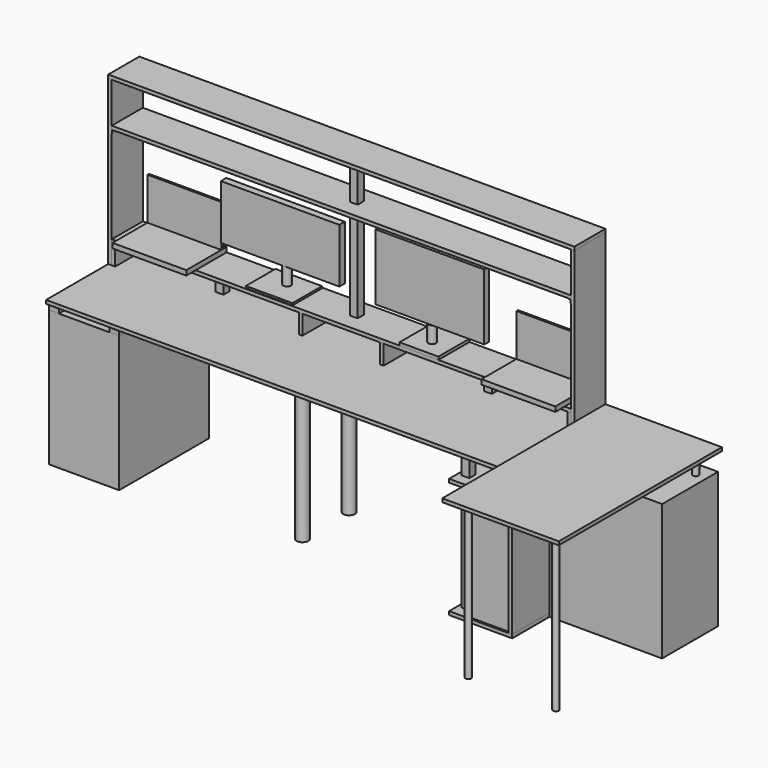
from build123d import *

# Parameters (mm, degrees)
BOX_W                     = 2400
BOX_H                     = 600
BOX_DEPTH                 = 18
BOX001_W                  = 360
BOX001_H                  = 580
BOX001_DEPTH              = 700
BOX002_W                  = 18
BOX002_H                  = 600
BOX002_DEPTH              = 718
BOX003_W                  = 2364
BOX003_H                  = 200
BOX003_DEPTH              = 18
BOX004_W                  = 2364
BOX004_H                  = 200
BOX004_DEPTH              = 18
BOX005_W                  = 2400
BOX005_H                  = 200
BOX005_DEPTH              = 18
BOX006_W                  = 18
BOX006_H                  = 200
BOX006_DEPTH              = 841
BOX007_W                  = 18
BOX007_H                  = 200
BOX007_DEPTH              = 841
CYLINDER_R                = 30
CYLINDER_DEPTH            = 710
CYLINDER001_R             = 30
CYLINDER001_DEPTH         = 710
BOX008_W                  = 18
BOX008_H                  = 200
BOX008_DEPTH              = 100
BOX009_W                  = 18
BOX009_H                  = 200
BOX009_DEPTH              = 100
BOX010_W                  = 50
BOX010_H                  = 580
BOX010_DEPTH              = 18
BOX011_W                  = 50
BOX011_H                  = 580
BOX011_DEPTH              = 18
BOX012_W                  = 50
BOX012_H                  = 580
BOX012_DEPTH              = 18
BOX013_W                  = 50
BOX013_H                  = 580
BOX013_DEPTH              = 18
BOX014_W                  = 100
BOX014_H                  = 100
BOX014_DEPTH              = 18
BOX015_W                  = 100
BOX015_H                  = 100
BOX015_DEPTH              = 18
BOX016_W                  = 100
BOX016_H                  = 100
BOX016_DEPTH              = 8
BOX017_W                  = 100
BOX017_H                  = 100
BOX017_DEPTH              = 8
BOX018_W                  = 18
BOX018_H                  = 200
BOX018_DEPTH              = 100
BOX019_W                  = 18
BOX019_H                  = 200
BOX019_DEPTH              = 100
BOX021_W                  = 40
BOX021_H                  = 40
BOX021_DEPTH              = 100
BOX022_W                  = 40
BOX022_H                  = 40
BOX022_DEPTH              = 100
BOX024_W                  = 40
BOX024_H                  = 40
BOX024_DEPTH              = 218
BOX025_W                  = 40
BOX025_H                  = 40
BOX025_DEPTH              = 507
BOX026_W                  = 205
BOX026_H                  = 555
BOX026_DEPTH              = 545
BOX027_W                  = 325
BOX027_H                  = 600
BOX027_DEPTH              = 18
BOX028_W                  = 40
BOX028_H                  = 40
BOX028_DEPTH              = 728
BOX029_W                  = 40
BOX029_H                  = 40
BOX029_DEPTH              = 728
BOX030_W                  = 307
BOX030_H                  = 600
BOX030_DEPTH              = 18
BOX032_W                  = 15
BOX032_H                  = 200
BOX032_DEPTH              = 1.5
BOX031_W                  = 1.5
BOX031_H                  = 200
BOX031_DEPTH              = 20
BOX034_W                  = 15
BOX034_H                  = 200
BOX034_DEPTH              = 1.5
BOX033_W                  = 1.5
BOX033_H                  = 200
BOX033_DEPTH              = 20
FUSION001_PLACEMENT_ANGLE = 180
BOX036_W                  = 380
BOX036_H                  = 10
BOX036_DEPTH              = 240
BOX035_W                  = 380
BOX035_H                  = 260
BOX035_DEPTH              = 25
FUSION002_PLACEMENT_ANGLE = 180
BOX038_W                  = 200
BOX038_H                  = 200
BOX038_DEPTH              = 15
CYLINDER002_R             = 20
CYLINDER002_DEPTH         = 90
BOX037_W                  = 560
BOX037_H                  = 30
BOX037_DEPTH              = 340
CYLINDER003_R             = 20
CYLINDER003_DEPTH         = 100
BOX040_W                  = 240
BOX040_H                  = 190
BOX040_DEPTH              = 10
BOX039_W                  = 610
BOX039_H                  = 35
BOX039_DEPTH              = 280
FUSION004_PLACEMENT_ANGLE = 180
BOX042_W                  = 380
BOX042_H                  = 10
BOX042_DEPTH              = 240
BOX041_W                  = 380
BOX041_H                  = 260
BOX041_DEPTH              = 25
FUSION005_PLACEMENT_ANGLE = 180
CYLINDER006_R             = 15
CYLINDER006_DEPTH         = 100
CYLINDER005_R             = 15
CYLINDER005_DEPTH         = 800
CYLINDER007_R             = 15
CYLINDER007_DEPTH         = 800
CYLINDER004_R             = 15
CYLINDER004_DEPTH         = 100
BOX043_W                  = 600
BOX043_H                  = 1050
BOX043_DEPTH              = 18
BOX044_W                  = 360
BOX044_H                  = 580
BOX044_DEPTH              = 700
BOX044_PLACEMENT_ANGLE    = -90


with BuildPart() as base:
    # Box → Box (new body)
    with BuildSketch(Plane.XY.offset(736)):
        with Locations((1200, 300)):
            Rectangle(BOX_W, BOX_H)
    extrude(amount=BOX_DEPTH)


with BuildPart() as obj1:
    # Box001 → Box001 (new body)
    with BuildSketch(Plane(origin=(0, 20, 0), x_dir=(1, 0, 0), z_dir=(0, 0, 1))):
        with Locations((180, 290)):
            Rectangle(BOX001_W, BOX001_H)
    extrude(amount=BOX001_DEPTH)


with BuildPart() as r:
    # Box002 → Box002 (new body)
    with BuildSketch(Plane(origin=(2382, 0, 18), x_dir=(1, 0, 0), z_dir=(0, 0, 1))):
        with Locations((9, 300)):
            Rectangle(BOX002_W, BOX002_H)
    extrude(amount=BOX002_DEPTH)


with BuildPart() as box003:
    # Box003 → Box003 (new body)
    with BuildSketch(Plane(origin=(18, 400, 854), x_dir=(1, 0, 0), z_dir=(0, 0, 1))):
        with Locations((1182, 100)):
            Rectangle(BOX003_W, BOX003_H)
    extrude(amount=BOX003_DEPTH)


with BuildPart() as box004:
    # Box004 → Box004 (new body)
    with BuildSketch(Plane(origin=(18, 400, 1369), x_dir=(1, 0, 0), z_dir=(0, 0, 1))):
        with Locations((1182, 100)):
            Rectangle(BOX004_W, BOX004_H)
    extrude(amount=BOX004_DEPTH)


with BuildPart() as box005:
    # Box005 → Box005 (new body)
    with BuildSketch(Plane(origin=(0, 400, 1595), x_dir=(1, 0, 0), z_dir=(0, 0, 1))):
        with Locations((1200, 100)):
            Rectangle(BOX005_W, BOX005_H)
    extrude(amount=BOX005_DEPTH)


with BuildPart() as obj2:
    # Box006 → Box006 (new body)
    with BuildSketch(Plane(origin=(0, 400, 754), x_dir=(1, 0, 0), z_dir=(0, 0, 1))):
        with Locations((9, 100)):
            Rectangle(BOX006_W, BOX006_H)
    extrude(amount=BOX006_DEPTH)


with BuildPart() as obj3:
    # Box007 → Box007 (new body)
    with BuildSketch(Plane(origin=(2382, 400, 754), x_dir=(1, 0, 0), z_dir=(0, 0, 1))):
        with Locations((9, 100)):
            Rectangle(BOX007_W, BOX007_H)
    extrude(amount=BOX007_DEPTH)


with BuildPart() as cylinder:
    # Cylinder → Cylinder (new body)
    with BuildSketch(Plane(origin=(1200, 450, 0), x_dir=(1, 0, 0), z_dir=(0, 0, 1))):
        Circle(CYLINDER_R)
    extrude(amount=CYLINDER_DEPTH)


with BuildPart() as cylinder001:
    # Cylinder001 → Cylinder001 (new body)
    with BuildSketch(Plane(origin=(1200, 150, 0), x_dir=(1, 0, 0), z_dir=(0, 0, 1))):
        Circle(CYLINDER001_R)
    extrude(amount=CYLINDER001_DEPTH)


with BuildPart() as obj4:
    # Box008 → Box008 (new body)
    with BuildSketch(Plane(origin=(18, 400, 754), x_dir=(1, 0, 0), z_dir=(0, 0, 1))):
        with Locations((9, 100)):
            Rectangle(BOX008_W, BOX008_H)
    extrude(amount=BOX008_DEPTH)


with BuildPart() as obj5:
    # Box009 → Box009 (new body)
    with BuildSketch(Plane(origin=(2364, 400, 754), x_dir=(1, 0, 0), z_dir=(0, 0, 1))):
        with Locations((9, 100)):
            Rectangle(BOX009_W, BOX009_H)
    extrude(amount=BOX009_DEPTH)


with BuildPart() as obj6:
    # Box010 → Box010 (new body)
    with BuildSketch(Plane(origin=(0, 20, 700), x_dir=(1, 0, 0), z_dir=(0, 0, 1))):
        with Locations((25, 290)):
            Rectangle(BOX010_W, BOX010_H)
    extrude(amount=BOX010_DEPTH)


with BuildPart() as obj7:
    # Box011 → Box011 (new body)
    with BuildSketch(Plane(origin=(0, 20, 718), x_dir=(1, 0, 0), z_dir=(0, 0, 1))):
        with Locations((25, 290)):
            Rectangle(BOX011_W, BOX011_H)
    extrude(amount=BOX011_DEPTH)


with BuildPart() as obj8:
    # Box012 → Box012 (new body)
    with BuildSketch(Plane(origin=(310, 20, 700), x_dir=(1, 0, 0), z_dir=(0, 0, 1))):
        with Locations((25, 290)):
            Rectangle(BOX012_W, BOX012_H)
    extrude(amount=BOX012_DEPTH)


with BuildPart() as obj9:
    # Box013 → Box013 (new body)
    with BuildSketch(Plane(origin=(310, 20, 718), x_dir=(1, 0, 0), z_dir=(0, 0, 1))):
        with Locations((25, 290)):
            Rectangle(BOX013_W, BOX013_H)
    extrude(amount=BOX013_DEPTH)


with BuildPart() as obj10:
    # Box014 → Box014 (new body)
    with BuildSketch(Plane(origin=(1150, 100, 710), x_dir=(1, 0, 0), z_dir=(0, 0, 1))):
        with Locations((50, 50)):
            Rectangle(BOX014_W, BOX014_H)
    extrude(amount=BOX014_DEPTH)


with BuildPart() as obj11:
    # Box015 → Box015 (new body)
    with BuildSketch(Plane(origin=(1150, 400, 710), x_dir=(1, 0, 0), z_dir=(0, 0, 1))):
        with Locations((50, 50)):
            Rectangle(BOX015_W, BOX015_H)
    extrude(amount=BOX015_DEPTH)


with BuildPart() as obj12:
    # Box016 → Box016 (new body)
    with BuildSketch(Plane(origin=(1150, 400, 728), x_dir=(1, 0, 0), z_dir=(0, 0, 1))):
        with Locations((50, 50)):
            Rectangle(BOX016_W, BOX016_H)
    extrude(amount=BOX016_DEPTH)


with BuildPart() as obj13:
    # Box017 → Box017 (new body)
    with BuildSketch(Plane(origin=(1150, 100, 728), x_dir=(1, 0, 0), z_dir=(0, 0, 1))):
        with Locations((50, 50)):
            Rectangle(BOX017_W, BOX017_H)
    extrude(amount=BOX017_DEPTH)


with BuildPart() as midbox_l:
    # Box018 → Box018 (new body)
    with BuildSketch(Plane(origin=(982, 400, 754), x_dir=(1, 0, 0), z_dir=(0, 0, 1))):
        with Locations((9, 100)):
            Rectangle(BOX018_W, BOX018_H)
    extrude(amount=BOX018_DEPTH)


with BuildPart() as midbox_r:
    # Box019 → Box019 (new body)
    with BuildSketch(Plane(origin=(1400, 400, 754), x_dir=(1, 0, 0), z_dir=(0, 0, 1))):
        with Locations((9, 100)):
            Rectangle(BOX019_W, BOX019_H)
    extrude(amount=BOX019_DEPTH)


with BuildPart() as obj14:
    # Box021 → Box021 (new body)
    with BuildSketch(Plane(origin=(489, 480, 754), x_dir=(1, 0, 0), z_dir=(0, 0, 1))):
        with Locations((20, 20)):
            Rectangle(BOX021_W, BOX021_H)
    extrude(amount=BOX021_DEPTH)


with BuildPart() as obj15:
    # Box022 → Box022 (new body)
    with BuildSketch(Plane(origin=(1871, 480, 754), x_dir=(1, 0, 0), z_dir=(0, 0, 1))):
        with Locations((20, 20)):
            Rectangle(BOX022_W, BOX022_H)
    extrude(amount=BOX022_DEPTH)


with BuildPart() as box024:
    # Box024 → Box024 (new body)
    with BuildSketch(Plane(origin=(1180, 480, 1382), x_dir=(1, 0, 0), z_dir=(0, 0, 1))):
        with Locations((20, 20)):
            Rectangle(BOX024_W, BOX024_H)
    extrude(amount=BOX024_DEPTH)


with BuildPart() as box025:
    # Box025 → Box025 (new body)
    with BuildSketch(Plane(origin=(1180, 480, 867), x_dir=(1, 0, 0), z_dir=(0, 0, 1))):
        with Locations((20, 20)):
            Rectangle(BOX025_W, BOX025_H)
    extrude(amount=BOX025_DEPTH)


with BuildPart() as obj16:
    # Box026 → Box026 (new body)
    with BuildSketch(Plane(origin=(2175, 10, 18), x_dir=(1, 0, 0), z_dir=(0, 0, 1))):
        with Locations((102.5, 277.5)):
            Rectangle(BOX026_W, BOX026_H)
    extrude(amount=BOX026_DEPTH)


with BuildPart() as r_b:
    # Box027 → Box027 (new body)
    with BuildSketch(Plane(origin=(2075, 0, 0), x_dir=(1, 0, 0), z_dir=(0, 0, 1))):
        with Locations((162.5, 300)):
            Rectangle(BOX027_W, BOX027_H)
    extrude(amount=BOX027_DEPTH)


with BuildPart() as r_f:
    # Box028 → Box028 (new body)
    with BuildSketch(Plane(origin=(2095, 55, 13), x_dir=(1, 0, 0), z_dir=(0, 0, 1))):
        with Locations((20, 20)):
            Rectangle(BOX028_W, BOX028_H)
    extrude(amount=BOX028_DEPTH)


with BuildPart() as r_r:
    # Box029 → Box029 (new body)
    with BuildSketch(Plane(origin=(2095, 505, 13), x_dir=(1, 0, 0), z_dir=(0, 0, 1))):
        with Locations((20, 20)):
            Rectangle(BOX029_W, BOX029_H)
    extrude(amount=BOX029_DEPTH)


with BuildPart() as r_m:
    # Box030 → Box030 (new body)
    with BuildSketch(Plane(origin=(2075, 0, 600), x_dir=(1, 0, 0), z_dir=(0, 0, 1))):
        with Locations((153.5, 300)):
            Rectangle(BOX030_W, BOX030_H)
    extrude(amount=BOX030_DEPTH)


with BuildPart() as cube001:
    # Box032 → Box032 (new body)
    with BuildSketch(Plane.XY.offset(18.5)):
        with Locations((7.5, 100)):
            Rectangle(BOX032_W, BOX032_H)
    extrude(amount=BOX032_DEPTH)


with BuildPart() as obj17:
    # Box031 → Box031 (new body)
    with BuildSketch(Plane.XY):
        with Locations((0.75, 100)):
            Rectangle(BOX031_W, BOX031_H)
    extrude(amount=BOX031_DEPTH)

    # Fusion: union Cube001
    add(cube001.part)


with BuildPart() as obj17_1:
    # Fusion placement: moved
    add(obj17.part.moved(Location((18, 400, 1349))))


with BuildPart() as cube003:
    # Box034 → Box034 (new body)
    with BuildSketch(Plane.XY.offset(18.5)):
        with Locations((7.5, 100)):
            Rectangle(BOX034_W, BOX034_H)
    extrude(amount=BOX034_DEPTH)


with BuildPart() as obj18:
    # Box033 → Box033 (new body)
    with BuildSketch(Plane.XY):
        with Locations((0.75, 100)):
            Rectangle(BOX033_W, BOX033_H)
    extrude(amount=BOX033_DEPTH)

    # Fusion001: union Cube003
    add(cube003.part)


with BuildPart() as obj18_1:
    # Fusion001 placement: moved
    add(obj18.part.moved(Location((2382, 600, 1349))).rotate(Axis((2382, 600, 1349), (0, 0, 1)), FUSION001_PLACEMENT_ANGLE))


with BuildPart() as pantalla:
    # Box036 → Box036 (new body)
    with BuildSketch(Plane(origin=(0, 25, 2.5), x_dir=(1, 0, 0), z_dir=(0, 0, 1))):
        with Locations((190, 5)):
            Rectangle(BOX036_W, BOX036_H)
    extrude(amount=BOX036_DEPTH)


with BuildPart() as obj19:
    # Box035 → Box035 (new body)
    with BuildSketch(Plane.XY):
        with Locations((190, 130)):
            Rectangle(BOX035_W, BOX035_H)
    extrude(amount=BOX035_DEPTH)

    # Fusion002: union pantalla
    add(pantalla.part)


with BuildPart() as obj19_1:
    # Fusion002 placement: moved
    add(obj19.part.moved(Location((450, 600, 872))).rotate(Axis((450, 600, 872), (0, 0, 1)), FUSION002_PLACEMENT_ANGLE))


with BuildPart() as base001:
    # Box038 → Box038 (new body)
    with BuildSketch(Plane(origin=(-100, 0, 0), x_dir=(1, 0, 0), z_dir=(0, 0, 1))):
        with Locations((100, 100)):
            Rectangle(BOX038_W, BOX038_H)
    extrude(amount=BOX038_DEPTH)


with BuildPart() as cilindro:
    # Cylinder002 → Cylinder002 (new body)
    with BuildSketch(Plane(origin=(0, 85, 10), x_dir=(1, 0, 0), z_dir=(0, 0, 1))):
        Circle(CYLINDER002_R)
    extrude(amount=CYLINDER002_DEPTH)


with BuildPart() as obj20:
    # Box037 → Box037 (new body)
    with BuildSketch(Plane(origin=(-280, 70, 100), x_dir=(1, 0, 0), z_dir=(0, 0, 1))):
        with Locations((280, 15)):
            Rectangle(BOX037_W, BOX037_H)
    extrude(amount=BOX037_DEPTH)

    # Fusion003: union base001, Cilindro
    add(base001.part)
    add(cilindro.part)


with BuildPart() as obj20_1:
    # Fusion003 placement: moved
    add(obj20.part.moved(Location((1600, 400, 872))))


with BuildPart() as cilindro001:
    # Cylinder003 → Cylinder003 (new body)
    with BuildSketch(Plane(origin=(0, 75, 0), x_dir=(1, 0, 0), z_dir=(0, 0, 1))):
        Circle(CYLINDER003_R)
    extrude(amount=CYLINDER003_DEPTH)


with BuildPart() as base002:
    # Box040 → Box040 (new body)
    with BuildSketch(Plane(origin=(-120, 0, 0), x_dir=(1, 0, 0), z_dir=(0, 0, 1))):
        with Locations((120, 95)):
            Rectangle(BOX040_W, BOX040_H)
    extrude(amount=BOX040_DEPTH)


with BuildPart() as obj21:
    # Box039 → Box039 (new body)
    with BuildSketch(Plane(origin=(-285, 60, 100), x_dir=(1, 0, 0), z_dir=(0, 0, 1))):
        with Locations((305, 17.5)):
            Rectangle(BOX039_W, BOX039_H)
    extrude(amount=BOX039_DEPTH)

    # Fusion004: union Cilindro001, base002
    add(cilindro001.part)
    add(base002.part)


with BuildPart() as obj21_1:
    # Fusion004 placement: moved
    add(obj21.part.moved(Location((825, 595, 872))).rotate(Axis((825, 595, 872), (0, 0, 1)), FUSION004_PLACEMENT_ANGLE))


with BuildPart() as pantalla003:
    # Box042 → Box042 (new body)
    with BuildSketch(Plane(origin=(0, 25, 2.5), x_dir=(1, 0, 0), z_dir=(0, 0, 1))):
        with Locations((190, 5)):
            Rectangle(BOX042_W, BOX042_H)
    extrude(amount=BOX042_DEPTH)


with BuildPart() as obj22:
    # Box041 → Box041 (new body)
    with BuildSketch(Plane.XY):
        with Locations((190, 130)):
            Rectangle(BOX041_W, BOX041_H)
    extrude(amount=BOX041_DEPTH)

    # Fusion005: union pantalla003
    add(pantalla003.part)


with BuildPart() as obj22_1:
    # Fusion005 placement: moved
    add(obj22.part.moved(Location((2350, 600, 872))).rotate(Axis((2350, 600, 872), (0, 0, 1)), FUSION005_PLACEMENT_ANGLE))


with BuildPart() as cylinder008:
    # Cylinder006 → Cylinder006 (new body)
    with BuildSketch(Plane(origin=(2925, 525, 700), x_dir=(1, 0, 0), z_dir=(0, 0, 1))):
        Circle(CYLINDER006_R)
    extrude(amount=CYLINDER006_DEPTH)


with BuildPart() as cylinder005:
    # Cylinder005 → Cylinder005 (new body)
    with BuildSketch(Plane(origin=(2475, -375, 0), x_dir=(1, 0, 0), z_dir=(0, 0, 1))):
        Circle(CYLINDER005_R)
    extrude(amount=CYLINDER005_DEPTH)


with BuildPart() as cylinder009:
    # Cylinder007 → Cylinder007 (new body)
    with BuildSketch(Plane(origin=(2925, -375, 0), x_dir=(1, 0, 0), z_dir=(0, 0, 1))):
        Circle(CYLINDER007_R)
    extrude(amount=CYLINDER007_DEPTH)


with BuildPart() as cylinder004:
    # Cylinder004 → Cylinder004 (new body)
    with BuildSketch(Plane(origin=(2475, 525, 700), x_dir=(1, 0, 0), z_dir=(0, 0, 1))):
        Circle(CYLINDER004_R)
    extrude(amount=CYLINDER004_DEPTH)


with BuildPart() as aux:
    # Box043 → Box043 (new body)
    with BuildSketch(Plane(origin=(2400, -450, 800), x_dir=(1, 0, 0), z_dir=(0, 0, 1))):
        with Locations((300, 525)):
            Rectangle(BOX043_W, BOX043_H)
    extrude(amount=BOX043_DEPTH)

    # Fusion006: union Cylinder008, Cylinder005, Cylinder009, Cylinder004
    add(cylinder008.part)
    add(cylinder005.part)
    add(cylinder009.part)
    add(cylinder004.part)


with BuildPart() as obj23:
    # Box044 → Box044 (new body)
    with BuildSketch(Plane.XY):
        with Locations((180, 290)):
            Rectangle(BOX044_W, BOX044_H)
    extrude(amount=BOX044_DEPTH)


with BuildPart() as obj23_1:
    # Box044 placement: moved
    add(obj23.part.moved(Location((2400, 600, 0))).rotate(Axis((2400, 600, 0), (0, 0, 1)), BOX044_PLACEMENT_ANGLE))


solid = Compound([base.part, obj1.part, r.part, box003.part, box004.part, box005.part, obj2.part, obj3.part, cylinder.part, cylinder001.part, obj4.part, obj5.part, obj6.part, obj7.part, obj8.part, obj9.part, obj10.part, obj11.part, obj12.part, obj13.part, midbox_l.part, midbox_r.part, obj14.part, obj15.part, box024.part, box025.part, obj16.part, r_b.part, r_f.part, r_r.part, r_m.part, obj17_1.part, obj18_1.part, obj19_1.part, obj20_1.part, obj21_1.part, obj22_1.part, aux.part, obj23_1.part])
